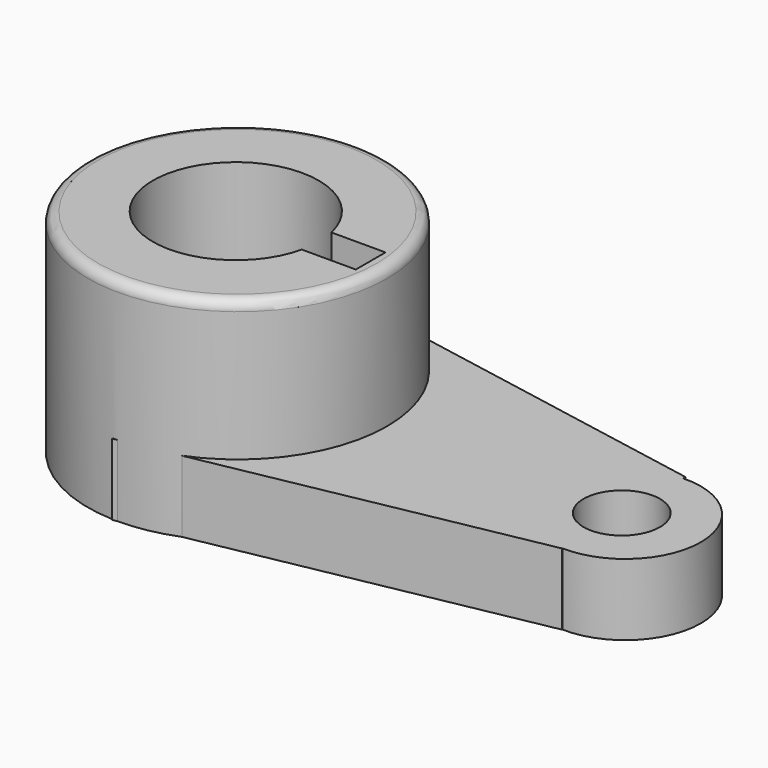
from build123d import *

# Parameters (mm, degrees)
F3_DEPTH  = 12.954
F1_R      = 13.7150037279
F0_R      = 27.1085366246
F4_DEPTH  = 25.4
F6_R      = 15.022792706
F7_W      = 16.4906103164
F7_H      = 6.7183971405
F8_DEPTH  = 56.134
F9_R      = 1.8396307345
F11_R     = 6.9234827164
F12_DEPTH = 40.894


with BuildPart() as f3:
    # F2 (on Top) → F3 (new body)
    with BuildSketch(Plane.XY):
        Polygon((-47.680426389, 27.2449441254), (-47.680426389, 0), (-47.925978899, -27.2676609457), (22.7930769324, -13.7622868642), (22.7930769324, 0), (22.7930769324, 14.2306741327), align=None)
    extrude(amount=F3_DEPTH)



with BuildPart() as f3b:
    # F1 (on Top) → F3, piece 2 (new body)
    with BuildSketch(Plane.XY):
        with Locations((23.2090074569, 0)):
            Circle(F1_R)
    extrude(amount=F3_DEPTH)


with BuildPart() as f3c:
    # F0 (on Top) → F3, piece 3 (new body)
    with BuildSketch(Plane.XY):
        with Locations((-47.0287799835, 0)):
            Circle(F0_R)
    extrude(amount=F3_DEPTH)


with BuildPart() as f3_1:
    add(f3.part)
    # F4 (add): a face of the model
    f4_faces = [f3c.part.faces().sort_by_distance(p)[0] for p in [
        (-47.0287799835, 0, 12.954),
    ]]

    add(f3b.part)  # F4 merges F3b

    add(f3c.part)  # F4 merges F3c
    extrude(f4_faces, amount=F4_DEPTH)

    # F6 (on offset) + F7 (on offset) → F8 (cut)
    with BuildSketch(Plane.XY.offset(48.514)):
        with Locations((-47.3341606557, 0)):
            Circle(F6_R)
    with BuildSketch(Plane.XY.offset(48.514)):
        with Locations((-31.1489319429, 0)):
            Rectangle(F7_W, F7_H)
    extrude(amount=-F8_DEPTH, mode=Mode.SUBTRACT)

    # F9
    f9_edges = [f3_1.edges().sort_by_distance(p)[0] for p in [
        (-74.137317, 0, 38.354),
    ]]
    fillet(f9_edges, radius=F9_R)

    # F11 (on offset) → F12 (cut)
    with BuildSketch(Plane.XY.offset(16.002)):
        with Locations((22.5982461125, 0)):
            Circle(F11_R)
    extrude(amount=-F12_DEPTH, mode=Mode.SUBTRACT)


solid = f3_1.part
